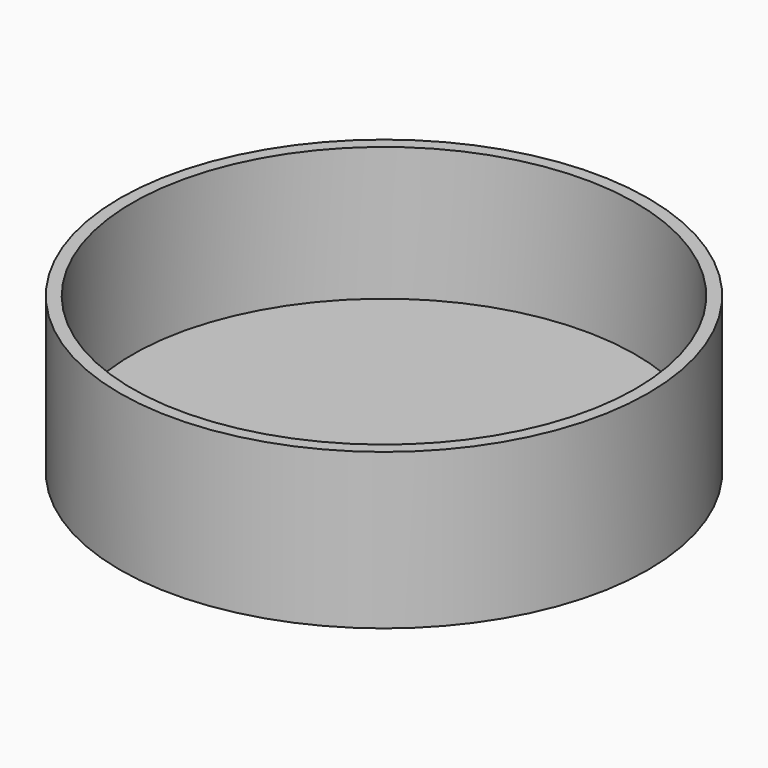
from build123d import *

# Parameters (mm, degrees)
F0_R     = 42.130231
F1_DEPTH = 2
F3_R     = 42.5
F3_R_2   = 40.5
F4_DEPTH = 25


with BuildPart() as f1:
    # F0 (on Top) → F1 (new body)
    with BuildSketch(Plane.XY):
        Circle(F0_R)
    extrude(amount=F1_DEPTH)


with BuildPart() as f1_1:
    # F2: moved
    add(f1.part.moved(Location((0, 0, 1.5))))

    # F3 (on Top) → F4 (join)
    with BuildSketch(Plane.XY):
        Circle(F3_R)
        Circle(F3_R_2, mode=Mode.SUBTRACT)
    extrude(amount=F4_DEPTH)


solid = f1_1.part
